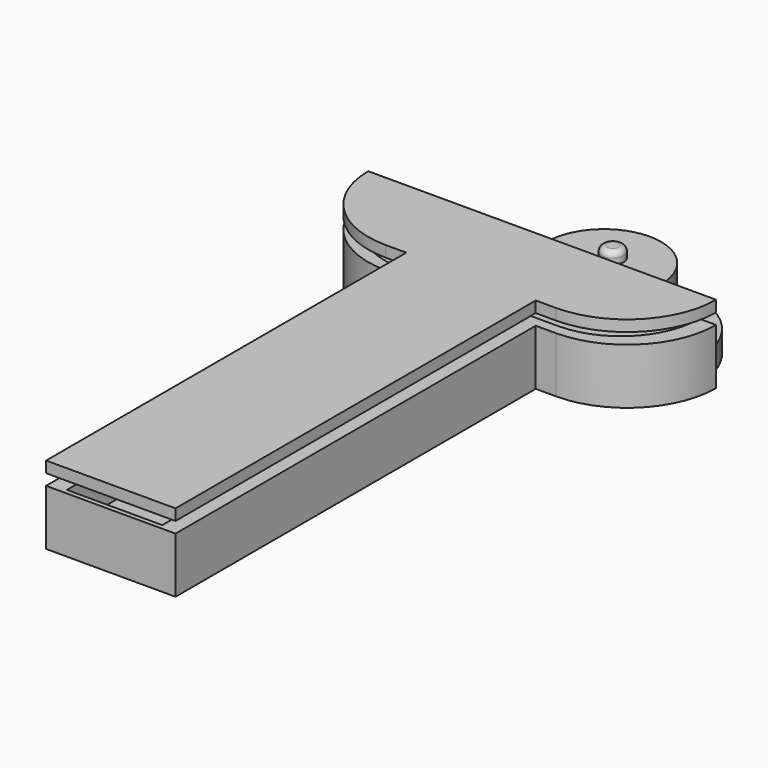
from build123d import *

# Parameters (mm, degrees)
PAD_DEPTH    = 5
PAD001_DEPTH = 2
SKETCH003_R  = 1
PAD003_DEPTH = 2
FILLET_R     = 0.5
PAD002_DEPTH = 1


with BuildPart() as body_key_holder_id_badge:
    # Sketch001 → Pad (new body)
    with BuildSketch(Plane.XY):
        with BuildLine():
            ThreePointArc((-15.64, 7.06), (-13.296854, 1.403146), (-7.64, -0.94))
            Line((-7.64, -0.94), (-5.82, -0.94))
            Line((-5.82, -0.94), (-5.82, -41.43))
            Line((-5.82, -41.43), (5.82, -41.43))
            Line((5.82, -41.43), (5.82, -0.94))
            Line((5.82, -0.94), (7.64, -0.94))
            ThreePointArc((7.64, -0.94), (13.296854, 1.403146), (15.64, 7.06))
            Line((14.14, 7.06), (15.64, 7.06))
            ThreePointArc((7.08, 0), (12.072174, 2.067826), (14.14, 7.06))
            Line((4.29, 0), (7.08, 0))
            Line((4.29, -41), (4.29, 0))
            Line((-4.29, -41), (4.29, -41))
            Line((-4.29, 0), (-4.29, -41))
            Line((-7.08, 0), (-4.29, 0))
            ThreePointArc((-14.14, 7.06), (-12.072174, 2.067826), (-7.08, 0))
            Line((-15.64, 7.06), (-14.14, 7.06))
        make_face()
    extrude(amount=PAD_DEPTH)

    # Sketch → Pad001 (join)
    with BuildSketch(Plane.XY):
        with BuildLine():
            Line((-4.26, 0), (-4.26, -40))
            Line((-4.26, -40), (4.26, -40))
            Line((4.26, -40), (4.26, 0))
            Line((4.26, 0), (7.26, 0))
            ThreePointArc((7.26, 0), (14.26, 6.99999), (7.260019, 14))
            Line((7.260019, 14), (5.15, 14))
            ThreePointArc((5.15, 14), (0, 19.15), (-5.15, 14))
            Line((-7.260027, 14), (-5.15, 14))
            ThreePointArc((-7.260027, 14), (-14.26, 6.999986), (-7.26, 0))
            Line((-4.26, 0), (-7.26, 0))
        make_face()
    extrude(amount=PAD001_DEPTH)

    # Sketch003 → Pad003 (join)
    with BuildSketch(Plane.XY.offset(1)):
        with Locations((0, 15)):
            Circle(SKETCH003_R)
    extrude(amount=PAD003_DEPTH)

    # Fillet
    fillet_edges = [body_key_holder_id_badge.edges().sort_by_distance(p)[0] for p in [
        (-1, 15, 3),
    ]]
    fillet(fillet_edges, radius=FILLET_R)


with BuildPart() as body_top:
    # Sketch005 → Pad002 (new body)
    with BuildSketch(Plane.XY.offset(6)):
        with BuildLine():
            Line((-15.64, 7.06), (15.64, 7.06))
            ThreePointArc((7.64, -0.94), (13.296854, 1.403146), (15.64, 7.06))
            Line((7.64, -0.94), (5.82, -0.94))
            Line((5.82, -0.94), (5.82, -41.43))
            Line((5.82, -41.43), (-5.82, -41.43))
            Line((-5.82, -41.43), (-5.82, -0.94))
            Line((-5.82, -0.94), (-7.64, -0.94))
            ThreePointArc((-15.64, 7.06), (-13.296854, 1.403146), (-7.64, -0.94))
        make_face()
    extrude(amount=PAD002_DEPTH)


solid = Compound([body_key_holder_id_badge.part, body_top.part])
